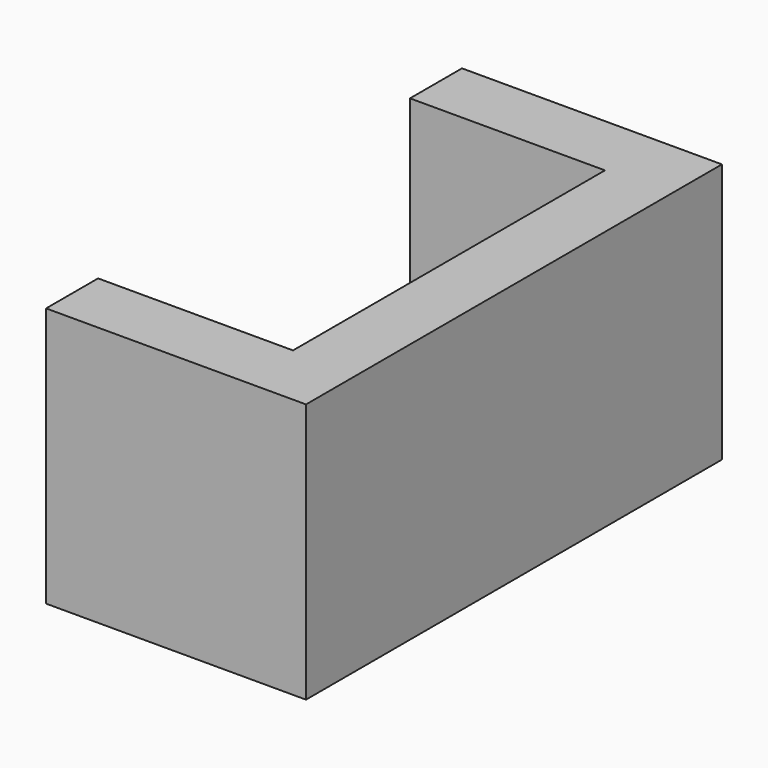
from build123d import *

# Parameters (mm, degrees)
F0_W     = 101.6
F0_H     = 101.6
F1_DEPTH = 203.2
F2_W     = 152.4
F2_H     = 76.2
F3_DEPTH = 76.2
F5_DEPTH = 152.4


with BuildPart() as f1:
    # F0 (on Front) → F1 (new body)
    with BuildSketch(Plane.XZ):
        with Locations((-50.8, -50.8)):
            Rectangle(F0_W, F0_H)
    extrude(amount=F1_DEPTH)

    # F2 (on face) → F3 (cut)
    with BuildSketch(Plane(origin=(-101.6, 0, 0), x_dir=(0, -1, 0), z_dir=(-1, 0, 0))):
        with Locations((101.6, -38.1)):
            Rectangle(F2_W, F2_H)
    extrude(amount=-F3_DEPTH, mode=Mode.SUBTRACT)

    # F4 (on face) → F5 (join)
    with BuildSketch(Plane(origin=(0, -177.8, 0), x_dir=(-1, 0, 0), z_dir=(0, 1, 0))):
        Polygon((25.4, -76.2), (101.6, -76.2), (25.4, 0), align=None)
    extrude(amount=F5_DEPTH)


solid = f1.part
